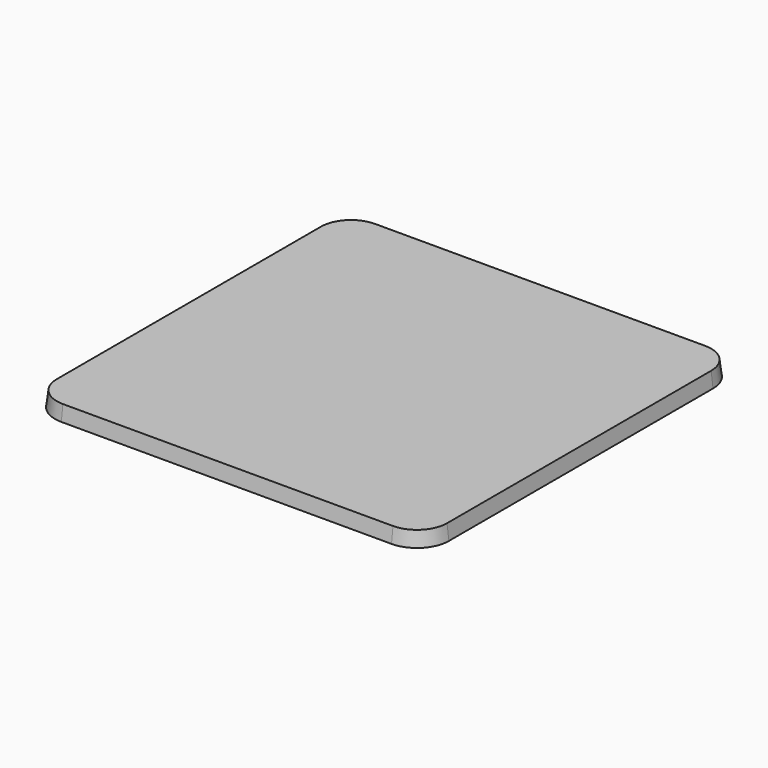
from build123d import *

# Parameters (mm, degrees)
F2_DEPTH = 12.7
F2_TAPER = -7.125


with BuildPart() as f2:
    # F0 (on Top) → F2 (new body)
    with BuildSketch(Plane.XY):
        with BuildLine():
            Line((-139.7, -165.1), (139.7, -165.1))
            ThreePointArc((139.7, -165.1), (157.6605122421, -157.6605122421), (165.1, -139.7))
            Line((165.1, -139.7), (165.1, 139.7))
            ThreePointArc((165.1, 139.7), (157.6605122421, 157.6605122421), (139.7, 165.1))
            Line((139.7, 165.1), (-139.7, 165.1))
            ThreePointArc((-139.7, 165.1), (-157.6605122421, 157.6605122421), (-165.1, 139.7))
            Line((-165.1, 139.7), (-165.1, -139.7))
            ThreePointArc((-165.1, -139.7), (-157.6605122421, -157.6605122421), (-139.7, -165.1))
        make_face()
        with BuildLine():
            ThreePointArc((-139.7, -152.4), (-148.6802561211, -148.6802561211), (-152.4, -139.7))
            Line((-152.4, -139.7), (-152.4, -19.0555986124))
            ThreePointArc((-152.4, -19.0555986124), (-148.6802561211, -10.0753424913), (-139.7, -6.3555986124))
            Line((-139.7, -6.3555986124), (-19.0451302115, -6.3555986124))
            ThreePointArc((-19.0451302115, -6.3555986124), (-10.0648740904, -10.0753424913), (-6.3451302115, -19.0555986124))
            Line((-6.3451302115, -19.0555986124), (-6.3451302115, -139.7))
            ThreePointArc((-6.3451302115, -139.7), (-10.0648740904, -148.6802561211), (-19.0451302115, -152.4))
            Line((-19.0451302115, -152.4), (-139.7, -152.4))
        make_face(mode=Mode.SUBTRACT)
        with BuildLine():
            ThreePointArc((152.4, -139.7), (148.6802561211, -148.6802561211), (139.7, -152.4))
            Line((139.7, -152.4), (19.0451302115, -152.4))
            ThreePointArc((19.0451302115, -152.4), (10.0648740904, -148.6802561211), (6.3451302115, -139.7))
            Line((6.3451302115, -139.7), (6.3451302115, -19.0555986124))
            ThreePointArc((6.3451302115, -19.0555986124), (10.0648740904, -10.0753424913), (19.0451302115, -6.3555986124))
            Line((19.0451302115, -6.3555986124), (139.7, -6.3555986124))
            ThreePointArc((139.7, -6.3555986124), (148.6802561211, -10.0753424913), (152.4, -19.0555986124))
            Line((152.4, -19.0555986124), (152.4, -139.7))
        make_face(mode=Mode.SUBTRACT)
        with BuildLine():
            ThreePointArc((-152.4, 139.7), (-148.6802561211, 148.6802561211), (-139.7, 152.4))
            Line((-139.7, 152.4), (-19.0451302115, 152.4))
            ThreePointArc((-19.0451302115, 152.4), (-10.0648740904, 148.6802561211), (-6.3451302115, 139.7))
            Line((-6.3451302115, 139.7), (-6.3451302115, 19.0555986124))
            ThreePointArc((-6.3451302115, 19.0555986124), (-10.0648740904, 10.0753424913), (-19.0451302115, 6.3555986124))
            Line((-19.0451302115, 6.3555986124), (-139.7, 6.3555986124))
            ThreePointArc((-139.7, 6.3555986124), (-148.6802561211, 10.0753424913), (-152.4, 19.0555986124))
            Line((-152.4, 19.0555986124), (-152.4, 139.7))
        make_face(mode=Mode.SUBTRACT)
        with BuildLine():
            Line((19.0451302115, 152.4), (139.7, 152.4))
            ThreePointArc((139.7, 152.4), (148.6802561211, 148.6802561211), (152.4, 139.7))
            Line((152.4, 139.7), (152.4, 19.0555986124))
            ThreePointArc((152.4, 19.0555986124), (148.6802561211, 10.0753424913), (139.7, 6.3555986124))
            Line((139.7, 6.3555986124), (19.0451302115, 6.3555986124))
            ThreePointArc((19.0451302115, 6.3555986124), (10.0648740904, 10.0753424913), (6.3451302115, 19.0555986124))
            Line((6.3451302115, 19.0555986124), (6.3451302115, 139.7))
            ThreePointArc((6.3451302115, 139.7), (10.0648740904, 148.6802561211), (19.0451302115, 152.4))
        make_face(mode=Mode.SUBTRACT)
        with BuildLine():
            Line((19.0451302115, -152.4), (139.7, -152.4))
            ThreePointArc((139.7, -152.4), (148.6802561211, -148.6802561211), (152.4, -139.7))
            Line((152.4, -139.7), (152.4, -19.0555986124))
            ThreePointArc((152.4, -19.0555986124), (148.6802561211, -10.0753424913), (139.7, -6.3555986124))
            Line((139.7, -6.3555986124), (19.0451302115, -6.3555986124))
            ThreePointArc((19.0451302115, -6.3555986124), (10.0648740904, -10.0753424913), (6.3451302115, -19.0555986124))
            Line((6.3451302115, -19.0555986124), (6.3451302115, -139.7))
            ThreePointArc((6.3451302115, -139.7), (10.0648740904, -148.6802561211), (19.0451302115, -152.4))
        make_face()
        with BuildLine():
            ThreePointArc((152.4, 139.7), (148.6802561211, 148.6802561211), (139.7, 152.4))
            Line((139.7, 152.4), (19.0451302115, 152.4))
            ThreePointArc((19.0451302115, 152.4), (10.0648740904, 148.6802561211), (6.3451302115, 139.7))
            Line((6.3451302115, 139.7), (6.3451302115, 19.0555986124))
            ThreePointArc((6.3451302115, 19.0555986124), (10.0648740904, 10.0753424913), (19.0451302115, 6.3555986124))
            Line((19.0451302115, 6.3555986124), (139.7, 6.3555986124))
            ThreePointArc((139.7, 6.3555986124), (148.6802561211, 10.0753424913), (152.4, 19.0555986124))
            Line((152.4, 19.0555986124), (152.4, 139.7))
        make_face()
        with BuildLine():
            Line((-152.4, -19.0555986124), (-152.4, -139.7))
            ThreePointArc((-152.4, -139.7), (-148.6802561211, -148.6802561211), (-139.7, -152.4))
            Line((-139.7, -152.4), (-19.0451302115, -152.4))
            ThreePointArc((-19.0451302115, -152.4), (-10.0648740904, -148.6802561211), (-6.3451302115, -139.7))
            Line((-6.3451302115, -139.7), (-6.3451302115, -19.0555986124))
            ThreePointArc((-6.3451302115, -19.0555986124), (-10.0648740904, -10.0753424913), (-19.0451302115, -6.3555986124))
            Line((-19.0451302115, -6.3555986124), (-139.7, -6.3555986124))
            ThreePointArc((-139.7, -6.3555986124), (-148.6802561211, -10.0753424913), (-152.4, -19.0555986124))
        make_face()
        with BuildLine():
            Line((-19.0451302115, 152.4), (-139.7, 152.4))
            ThreePointArc((-139.7, 152.4), (-148.6802561211, 148.6802561211), (-152.4, 139.7))
            Line((-152.4, 139.7), (-152.4, 19.0555986124))
            ThreePointArc((-152.4, 19.0555986124), (-148.6802561211, 10.0753424913), (-139.7, 6.3555986124))
            Line((-139.7, 6.3555986124), (-19.0451302115, 6.3555986124))
            ThreePointArc((-19.0451302115, 6.3555986124), (-10.0648740904, 10.0753424913), (-6.3451302115, 19.0555986124))
            Line((-6.3451302115, 19.0555986124), (-6.3451302115, 139.7))
            ThreePointArc((-6.3451302115, 139.7), (-10.0648740904, 148.6802561211), (-19.0451302115, 152.4))
        make_face()
    extrude(amount=-F2_DEPTH, taper=F2_TAPER)


solid = f2.part
